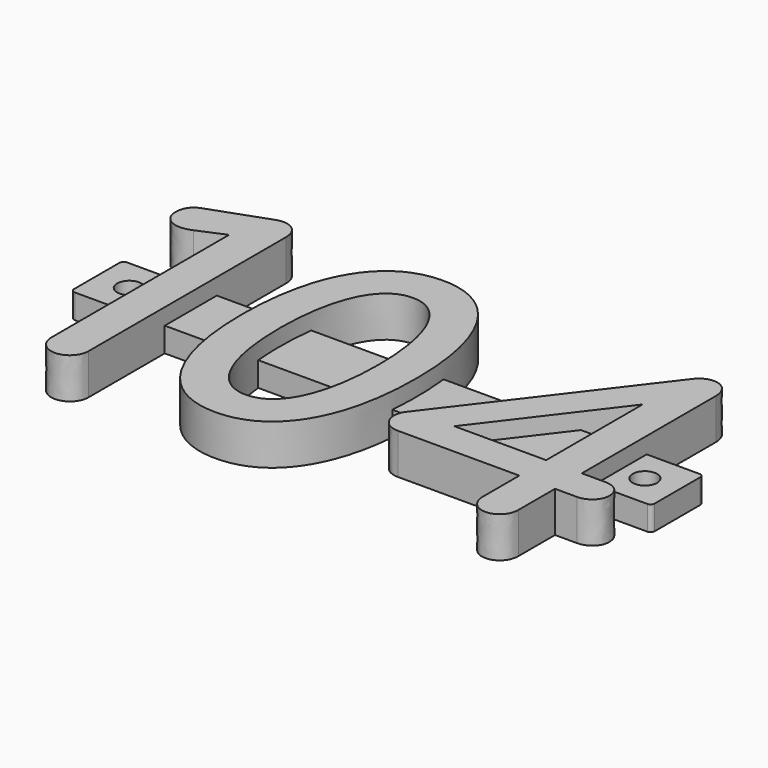
from build123d import *

# Parameters (mm, degrees)
PAD_DEPTH    = 10
SKETCH001_W  = 142.681204
SKETCH001_H  = 16
PAD001_DEPTH = 6
SKETCH002_R  = 3
POCKET_DEPTH = 6.001
FILLET_R     = 1


with BuildPart() as part:
    # Sketch (on XY_Plane of Origin) → Pad (new body)
    with BuildSketch(Plane.XY):
        with BuildLine():
            add(Edge.make_bspline(
                [(18.439902, 126.187558), (21.035809, 126.187558), (23.094632, 128.246381), (23.094632, 130.752774)],
                knots=[0, 0, 0, 0, 1, 1, 1, 1], degree=3))
            Line((23.094632, 130.752774), (23.094632, 191.443296))
            add(Edge.make_bspline(
                [(23.094632, 191.443296), (23.094632, 194.128717), (21.304351, 196.098026), (18.61893, 196.098026)],
                knots=[0, 0, 0, 0, 1, 1, 1, 1], degree=3))
            add(Edge.make_bspline(
                [(18.61893, 196.098026), (18.17136, 196.098026), (17.455247, 195.918998), (16.918163, 195.73997)],
                knots=[0, 0, 0, 0, 1, 1, 1, 1], degree=3))
            Line((16.918163, 195.73997), (2.953972, 190.727184))
            add(Edge.make_bspline(
                [(2.953972, 190.727184), (0.895149, 190.011071), (9e-06, 188.310304), (9e-06, 186.430509)],
                knots=[0, 0, 0, 0, 1, 1, 1, 1], degree=3))
            add(Edge.make_bspline(
                [(9e-06, 186.430509), (9e-06, 183.834602), (1.879804, 181.954807), (4.565225, 181.954807)],
                knots=[0, 0, 0, 0, 1, 1, 1, 1], degree=3))
            add(Edge.make_bspline(
                [(4.565225, 181.954807), (5.370852, 181.954807), (6.355506, 182.133835), (7.429675, 182.581406)],
                knots=[0, 0, 0, 0, 1, 1, 1, 1], degree=3))
            Line((7.429675, 182.581406), (13.9642, 185.356341))
            Line((13.9642, 185.356341), (13.9642, 130.752774))
            add(Edge.make_bspline(
                [(13.9642, 130.752774), (13.9642, 128.246381), (16.023023, 126.187558), (18.439902, 126.187558)],
                knots=[0, 0, 0, 0, 1, 1, 1, 1], degree=3))
        make_face()
        with BuildLine():
            add(Edge.make_bspline(
                [(57.915595, 126.187558), (71.52173, 126.187558), (79.309452, 139.525151), (79.309452, 161.187549)],
                knots=[0, 0, 0, 0, 1, 1, 1, 1], degree=3))
            add(Edge.make_bspline(
                [(79.309452, 161.187549), (79.309452, 182.849948), (71.52173, 196.18754), (57.915595, 196.18754)],
                knots=[0, 0, 0, 0, 1, 1, 1, 1], degree=3))
            add(Edge.make_bspline(
                [(57.915595, 196.18754), (44.309461, 196.18754), (36.521739, 183.208004), (36.521739, 161.187549)],
                knots=[0, 0, 0, 0, 1, 1, 1, 1], degree=3))
            add(Edge.make_bspline(
                [(36.521739, 161.187549), (36.521739, 139.167094), (44.309461, 126.187558), (57.915595, 126.187558)],
                knots=[0, 0, 0, 0, 1, 1, 1, 1], degree=3))
        make_face()
        with BuildLine():
            add(Edge.make_bspline(
                [(57.915595, 135.497019), (49.769817, 135.497019), (45.741685, 146.238704), (45.741685, 161.187549)],
                knots=[0, 0, 0, 0, 1, 1, 1, 1], degree=3))
            add(Edge.make_bspline(
                [(45.741685, 161.187549), (45.741685, 175.957366), (49.680303, 186.967594), (57.915595, 186.967594)],
                knots=[0, 0, 0, 0, 1, 1, 1, 1], degree=3))
            add(Edge.make_bspline(
                [(57.915595, 186.967594), (66.061373, 186.967594), (70.089505, 175.778338), (70.089505, 161.187549)],
                knots=[0, 0, 0, 0, 1, 1, 1, 1], degree=3))
            add(Edge.make_bspline(
                [(70.089505, 161.187549), (70.089505, 146.507246), (66.150887, 135.497019), (57.915595, 135.497019)],
                knots=[0, 0, 0, 0, 1, 1, 1, 1], degree=3))
        make_face(mode=Mode.SUBTRACT)
        with BuildLine():
            add(Edge.make_bspline(
                [(124.245501, 126.187558), (126.841409, 126.187558), (128.721204, 128.246381), (128.721204, 130.752774)],
                knots=[0, 0, 0, 0, 1, 1, 1, 1], degree=3))
            Line((128.721204, 130.752774), (128.721204, 142.031544))
            Line((128.721204, 142.031544), (134.092046, 142.031544))
            add(Edge.make_bspline(
                [(134.092046, 142.031544), (136.598439, 142.031544), (138.657262, 143.911339), (138.657262, 146.14919)],
                knots=[0, 0, 0, 0, 1, 1, 1, 1], degree=3))
            add(Edge.make_bspline(
                [(138.657262, 146.14919), (138.657262, 149.192667), (136.598439, 150.266836), (134.092046, 150.266836)],
                knots=[0, 0, 0, 0, 1, 1, 1, 1], degree=3))
            Line((134.092046, 150.266836), (128.721204, 150.266836))
            Line((128.721204, 150.266836), (128.721204, 191.443296))
            add(Edge.make_bspline(
                [(128.721204, 191.443296), (128.721204, 194.039203), (127.020437, 196.098026), (124.514044, 196.098026)],
                knots=[0, 0, 0, 0, 1, 1, 1, 1], degree=3))
            add(Edge.make_bspline(
                [(124.514044, 196.098026), (122.902791, 196.098026), (121.649594, 195.2924), (120.754454, 194.128717)],
                knots=[0, 0, 0, 0, 1, 1, 1, 1], degree=3))
            Line((120.754454, 194.128717), (86.470575, 149.192667))
            add(Edge.make_bspline(
                [(86.470575, 149.192667), (84.411752, 146.507246), (86.023005, 142.031544), (90.140651, 142.031544)],
                knots=[0, 0, 0, 0, 1, 1, 1, 1], degree=3))
            Line((90.140651, 142.031544), (119.948827, 142.031544))
            Line((119.948827, 142.031544), (119.948827, 130.752774))
            add(Edge.make_bspline(
                [(119.948827, 130.752774), (119.948827, 128.246381), (121.828622, 126.187558), (124.245501, 126.187558)],
                knots=[0, 0, 0, 0, 1, 1, 1, 1], degree=3))
        make_face()
        Polygon((119.948827, 150.266836), (97.391288, 150.266836), (119.948827, 179.895984), align=None, mode=Mode.SUBTRACT)
    extrude(amount=PAD_DEPTH)

    # Sketch001 (on XY_Plane of Origin) → Pad001 (join)
    with BuildSketch(Plane.XY):
        with Locations((71.340602, 162.187558)):
            Rectangle(SKETCH001_W, SKETCH001_H)
    extrude(amount=PAD001_DEPTH)

    # Sketch002 (on Face26 of Pad001) → Pocket (cut, through all)
    with BuildSketch(Plane.XY.offset(6)):
        with Locations((8, 162.187558)):
            Circle(SKETCH002_R)
        with Locations((134.681204, 162.187558)):
            Circle(SKETCH002_R)
    extrude(amount=-POCKET_DEPTH, mode=Mode.SUBTRACT)

    # Fillet
    fillet_edges = [part.edges().sort_by_distance(p)[0] for p in [
        (142.681204, 170.187558, 3),
        (142.681204, 154.187558, 3),
        (0, 170.187558, 3),
        (0, 154.187558, 3),
    ]]
    fillet(fillet_edges, radius=FILLET_R)


solid = part.part
